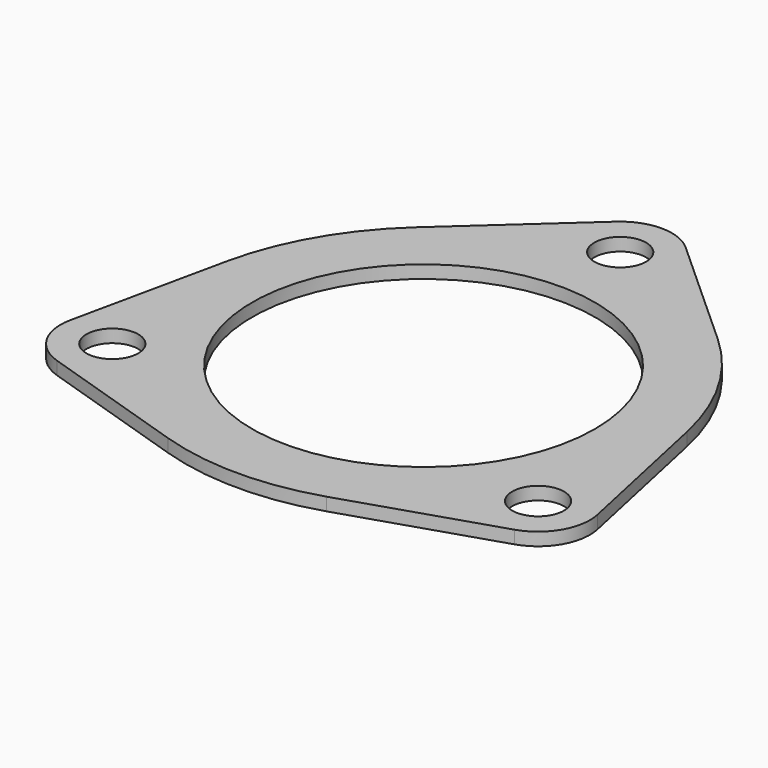
from build123d import *

# Parameters (mm, degrees)
SKETCH_R   = 26.5
SKETCH_R_2 = 4
PAD_DEPTH  = 1
FILLET_R   = 40


with BuildPart() as part:
    # Sketch → Pad (new body, symmetric)
    with BuildSketch(Plane.XY):
        with BuildLine():
            ThreePointArc((5.368922, 43.930824), (0, 46), (-5.368922, 43.930824))
            Line((-32.908965, 19), (-5.368922, 43.930824))
            Line((-32.908965, 19), (-40.729671, -17.315789))
            ThreePointArc((-40.729671, -17.315789), (-39.837169, -23), (-35.360749, -26.615035))
            Line((-35.360749, -26.615035), (0, -38))
            Line((0, -38), (35.360749, -26.615035))
            ThreePointArc((35.360749, -26.615035), (39.837169, -23), (40.729671, -17.315789))
            Line((32.908965, 19), (40.729671, -17.315789))
            Line((32.908965, 19), (5.368922, 43.930824))
        make_face()
        Circle(SKETCH_R, mode=Mode.SUBTRACT)
        with Locations((0, 38)):
            Circle(SKETCH_R_2, mode=Mode.SUBTRACT)
        with Locations((32.908965, -19)):
            Circle(SKETCH_R_2, mode=Mode.SUBTRACT)
        with Locations((-32.908965, -19)):
            Circle(SKETCH_R_2, mode=Mode.SUBTRACT)
    extrude(amount=PAD_DEPTH, both=True)

    # Fillet
    fillet_edges = [part.edges().sort_by_distance(p)[0] for p in [
        (32.908965, 19, 0),
        (0, -38, 0),
        (-32.908965, 19, 0),
    ]]
    fillet(fillet_edges, radius=FILLET_R)


solid = part.part
